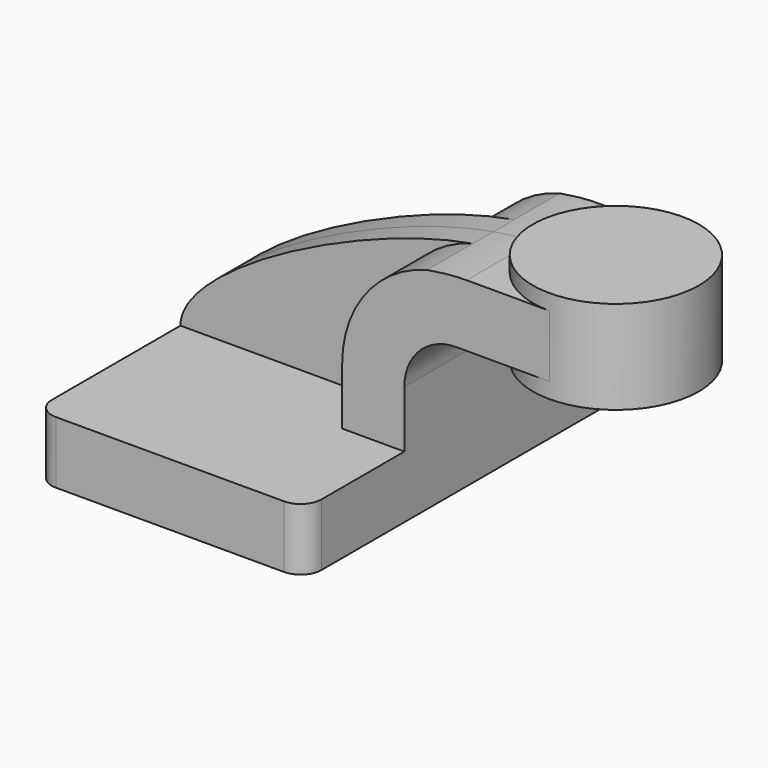
from build123d import *

# Parameters (mm, degrees)
F1_DEPTH = 63.5
F2_DEPTH = 25.4
F3_DEPTH = 7.9375
F5_R     = 6.35


with BuildPart() as f1:
    # F0 (on Front) → F1 (new body, symmetric)
    with BuildSketch(Plane.XZ):
        Polygon((-41.275, -9.525), (41.275, -9.525), (41.275, 9.525), (22.225, 9.525), (-41.275, 9.525), align=None)
    extrude(amount=F1_DEPTH, both=True)

    # F0 (on Front) → F2 (join, symmetric)
    with BuildSketch(Plane.XZ):
        with BuildLine():
            Line((22.225, 9.525), (41.275, 9.525))
            Line((41.275, 9.525), (41.275, 26.9875))
            ThreePointArc((41.275, 26.9875), (45.92468, 38.21282), (57.15, 42.8625))
            Line((57.15, 42.8625), (60.325, 42.8625))
            Line((60.325, 42.8625), (60.325, 61.9125))
            add(Edge.make_bspline(
                [(48.255708, 60.760969), (52.621366, 61.50744), (56.691353, 61.9125), (60.325, 61.9125)],
                knots=[101.688583, 101.688583, 101.688583, 101.688583, 114.311024, 114.311024, 114.311024, 114.311024], degree=3))
            ThreePointArc((48.255708, 60.760969), (29.487853, 48.307942), (22.225, 26.9875))
            Line((22.225, 26.9875), (22.225, 9.525))
        make_face()
        Polygon((85.725, 61.9125), (60.325, 61.9125), (60.325, 42.8625), (85.725, 42.8625), (85.725, 52.3875), align=None)
    extrude(amount=F2_DEPTH, both=True)

    # F0 (on Front) → F3 (join, symmetric)
    with BuildSketch(Plane.XZ):
        with BuildLine():
            add(Edge.make_bspline(
                [(-41.275, 9.525), (-41.275, 26.57534), (13.085199, 54.747268), (48.255708, 60.760969)],
                knots=[0, 0, 0, 0, 101.688583, 101.688583, 101.688583, 101.688583], degree=3))
            Line((-41.275, 9.525), (22.225, 9.525))
            Line((22.225, 9.525), (22.225, 26.9875))
            ThreePointArc((22.225, 26.9875), (29.487853, 48.307942), (48.255708, 60.760969))
        make_face()
    extrude(amount=F3_DEPTH, both=True)

    # F5
    f5_edges = [f1.edges().sort_by_distance(p)[0] for p in [
        (41.275, -63.5, 0),
        (-41.275, -63.5, 0),
        (-41.275, 63.5, 0),
        (41.275, 63.5, 0),
    ]]
    fillet(f5_edges, radius=F5_R)


with BuildPart() as f4:
    # F0 (on Front) → F4 (revolve)
    with BuildSketch(Plane.XZ):
        Polygon((85.725, 66.675), (85.725, 61.9125), (85.725, 52.3875), (85.725, 42.8625), (85.725, 38.1), (111.125, 38.1), (111.125, 66.675), align=None)
    revolve(axis=Axis((85.725, 0, 57.15), (0, 0, 1)))


with BuildPart() as f7:
    # F0 (on Front) → F7 (revolve)
    with BuildSketch(Plane.XZ):
        Polygon((85.725, 66.675), (85.725, 61.9125), (85.725, 52.3875), (85.725, 42.8625), (85.725, 38.1), (111.125, 38.1), (111.125, 66.675), align=None)
    revolve(axis=Axis((85.725, 0, 57.15), (0, 0, 1)))


solid = Compound([f1.part, f7.part])
